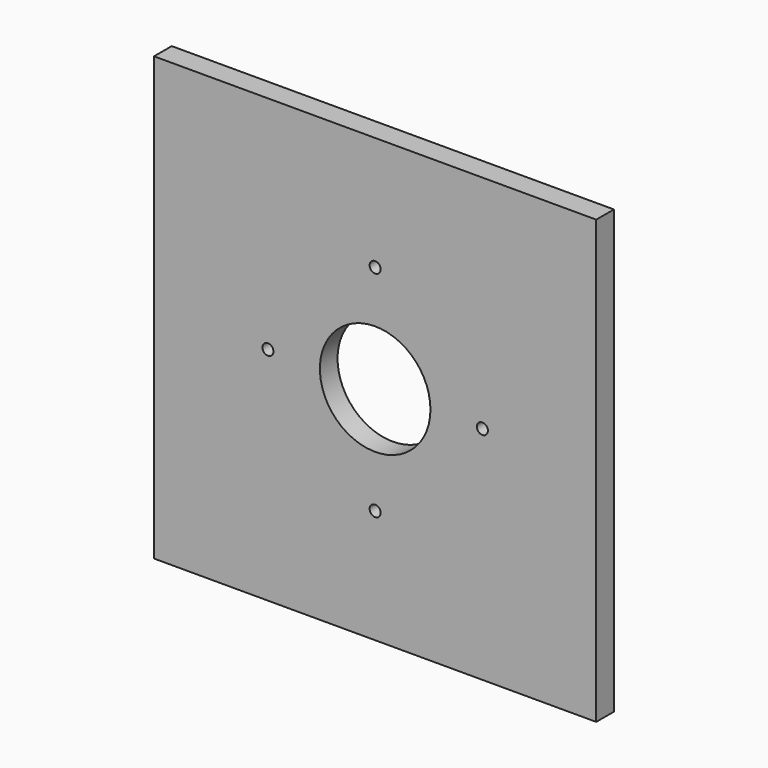
from build123d import *

# Parameters (mm, degrees)
F0_W     = 200
F0_H     = 200
F0_R     = 2.5
F0_R_2   = 25
F1_DEPTH = 10


with BuildPart() as f1:
    # F0 (on Front) → F1 (new body)
    with BuildSketch(Plane.XZ):
        Rectangle(F0_W, F0_H)
        with Locations((0, -48.5)):
            Circle(F0_R, mode=Mode.SUBTRACT)
        with Locations((-48.5, 0)):
            Circle(F0_R, mode=Mode.SUBTRACT)
        Circle(F0_R_2, mode=Mode.SUBTRACT)
        with Locations((48.5, 0)):
            Circle(F0_R, mode=Mode.SUBTRACT)
        with Locations((0, 48.5)):
            Circle(F0_R, mode=Mode.SUBTRACT)
    extrude(amount=F1_DEPTH)


solid = f1.part
